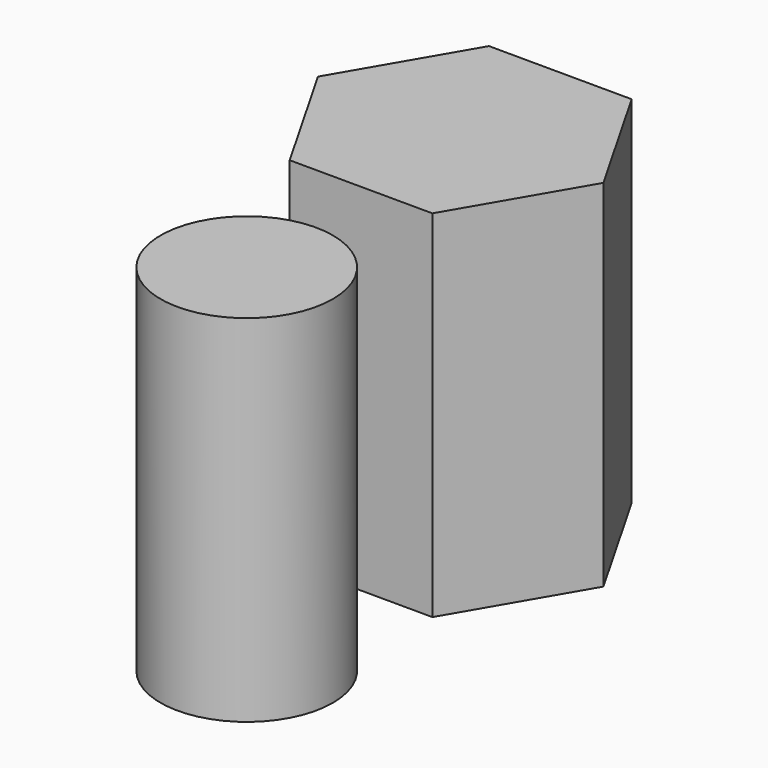
from build123d import *

# Parameters (mm, degrees)
F0_R     = 12.319
F1_DEPTH = 50.8
F3_DEPTH = 50.8


with BuildPart() as f1:
    # F0 (on Top) → F1 (new body)
    with BuildSketch(Plane.XY):
        Circle(F0_R)
    extrude(amount=F1_DEPTH)


with BuildPart() as f3:
    # F2 (on Top) → F3 (new body)
    with BuildSketch(Plane.XY):
        Polygon((-22.570284, 40.941512), (-12.408552, 23.186559), (8.048554, 23.1094), (18.343929, 40.787194), (8.182198, 58.542148), (-12.274909, 58.619307), align=None)
    extrude(amount=F3_DEPTH)


solid = Compound([f1.part, f3.part])
